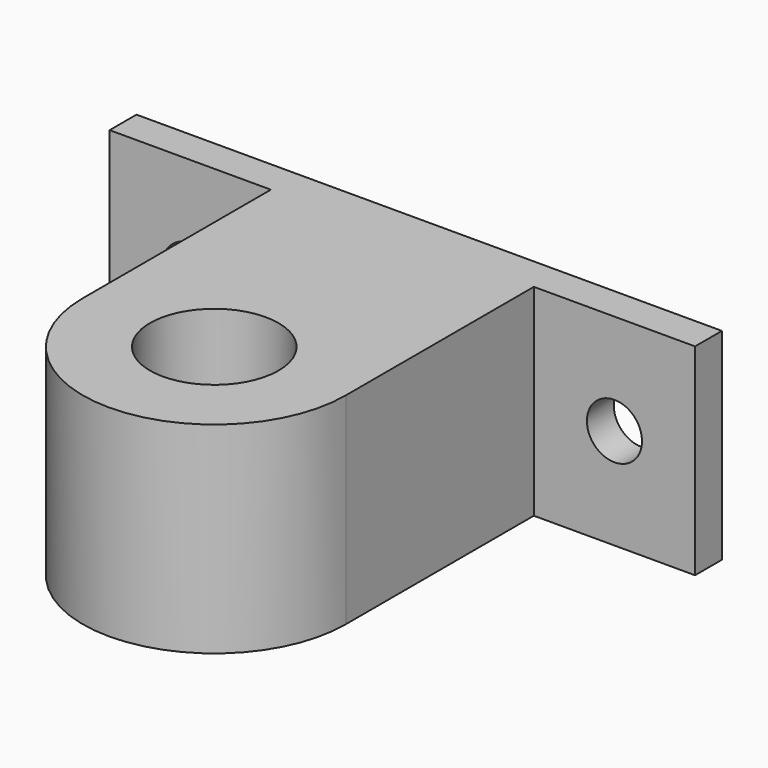
from build123d import *

# Parameters (mm, degrees)
F0_R     = 4.7879
F1_DEPTH = 15
F4_D     = 4.1
F5_D     = 4.1


with BuildPart() as f1:
    # F0 (on Top) → F1 (new body)
    with BuildSketch(Plane.XY):
        with BuildLine():
            ThreePointArc((-9.7879, 0), (0, 9.7879), (9.7879, 0))
            Line((9.7879, 0), (9.7879, 17.5))
            Line((9.7879, 17.5), (21.7879, 17.5))
            Line((21.7879, 17.5), (21.7879, 20))
            Line((21.7879, 20), (0, 20))
            Line((0, 20), (-21.7879, 20))
            Line((-21.7879, 20), (-21.7879, 17.5))
            Line((-21.7879, 17.5), (-9.7879, 17.5))
            Line((-9.7879, 17.5), (-9.7879, 0))
        make_face()
        with BuildLine():
            ThreePointArc((-9.7879, 0), (0, -9.7879), (9.7879, 0))
            ThreePointArc((9.7879, 0), (0, 9.7879), (-9.7879, 0))
        make_face()
        Circle(F0_R, mode=Mode.SUBTRACT)
    extrude(amount=F1_DEPTH)

    # F4 (through all)
    with Locations(Plane.XZ.offset(-17.5)):
        with Locations((15.7879, 7.5)):
            Hole(F4_D / 2)

    # F5 (through all)
    with Locations(Plane.XZ.offset(-17.5)):
        with Locations((-15.7879, 7.5)):
            Hole(F5_D / 2)


solid = f1.part
